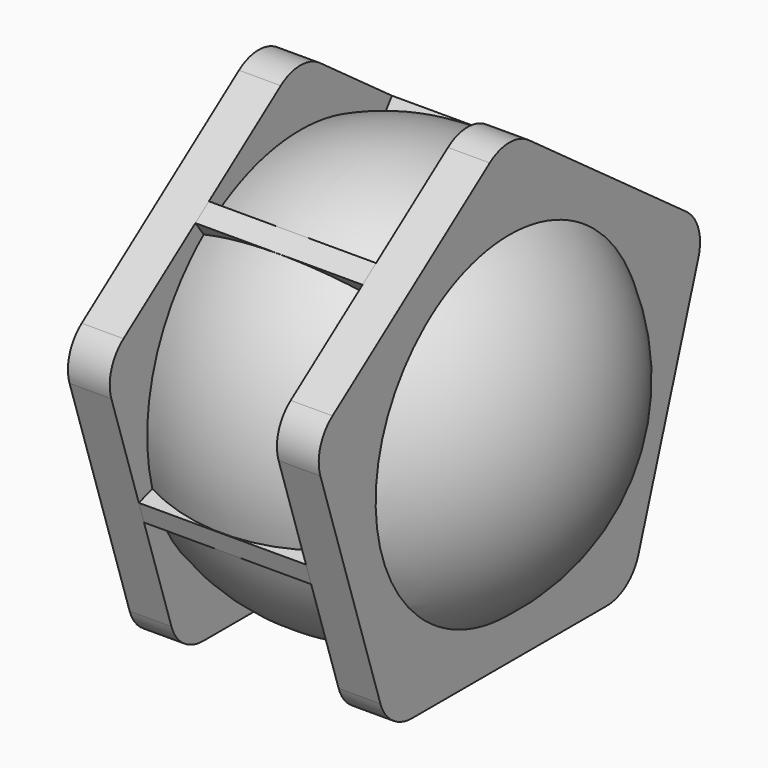
from build123d import *

# Parameters (mm, degrees)
F4_DEPTH  = 1
F7_DEPTH  = 1
F8_R      = 2
F10_DEPTH = 8


with BuildPart() as f1:
    # F0 (on Right) → F1 (revolve)
    with BuildSketch(Plane.YZ):
        with BuildLine():
            Line((0, -10), (0, 10))
            ThreePointArc((0, 10), (-10, 0), (0, -10))
        make_face()
    revolve(axis=Axis((0, 0, 0), (0, 0, -1)))

    # F3 (on offset) → F4 (join, symmetric)
    with BuildSketch(Plane.YZ.offset(5)):
        Polygon((-7.2654252801, -10), (7.2654252801, -10), (11.7557050458, 3.8196601125), (0, 12.360679775), (-11.7557050458, 3.8196601125), align=None)
    extrude(amount=F4_DEPTH, both=True)

    # F6 (on offset) → F7 (join, symmetric)
    with BuildSketch(Plane.YZ.offset(-5)):
        Polygon((-7.2654252801, -10), (7.2654252801, -10), (11.7557050458, 3.8196601125), (0, 12.360679775), (-11.7557050458, 3.8196601125), align=None)
    extrude(amount=F7_DEPTH, both=True)

    # F8
    f8_edges = [f1.edges().sort_by_distance(p)[0] for p in [
        (-5, -11.755705, 3.81966),
        (-5, 0, 12.36068),
        (5, 0, 12.36068),
        (5, -11.755705, 3.81966),
        (-5, -7.265425, -10),
        (5, -7.265425, -10),
        (5, 11.755705, 3.81966),
        (-5, 11.755705, 3.81966),
        (5, 7.265425, -10),
        (-5, 7.265425, -10),
    ]]
    fillet(f8_edges, radius=F8_R)

    # F9 (on face) → F10 (join)
    with BuildSketch(Plane.YZ.offset(-4)):
        with BuildLine():
            ThreePointArc((-5.783626767, 7.1098285085), (-5.387140822, 7.4147632305), (-4.9746097726, 7.6976137608))
            Line((-4.9746097726, 7.6976137608), (-5.4733440257, 8.3840625699))
            Line((-5.4733440257, 8.3840625699), (-6.2823610201, 7.7962773176))
            Line((-6.2823610201, 7.7962773176), (-5.783626767, 7.1098285085))
        make_face()
        with BuildLine():
            Line((5.4733440257, 8.3840625699), (4.9746097726, 7.6976137608))
            ThreePointArc((4.9746097726, 7.6976137608), (5.387140822, 7.4147632305), (5.783626767, 7.1098285085))
            Line((5.783626767, 7.1098285085), (6.2823610201, 7.7962773176))
            Line((6.2823610201, 7.7962773176), (5.4733440257, 8.3840625699))
        make_face()
        with BuildLine():
            Line((9.6650736601, -2.6146416856), (8.8581046872, -2.3524415721))
            ThreePointArc((8.8581046872, -2.3524415721), (8.7165769522, -2.8321875355), (8.5490876929, -3.3034980884))
            Line((8.5490876929, -3.3034980884), (9.3560566658, -3.5656982019))
            Line((9.3560566658, -3.5656982019), (9.6650736601, -2.6146416856))
        make_face()
        with BuildLine():
            ThreePointArc((0.5, -9.1515026089), (0, -9.1651513899), (-0.5, -9.1515026089))
            Line((-0.5, -9.1515026089), (-0.5, -10))
            Line((-0.5, -10), (0.5, -10))
            Line((0.5, -10), (0.5, -9.1515026089))
        make_face()
        with BuildLine():
            ThreePointArc((-8.5490876929, -3.3034980884), (-8.7165769522, -2.8321875355), (-8.8581046872, -2.3524415721))
            Line((-8.8581046872, -2.3524415721), (-9.6650736601, -2.6146416856))
            Line((-9.6650736601, -2.6146416856), (-9.3560566658, -3.5656982019))
            Line((-9.3560566658, -3.5656982019), (-8.5490876929, -3.3034980884))
        make_face()
    extrude(amount=F10_DEPTH)


solid = f1.part
